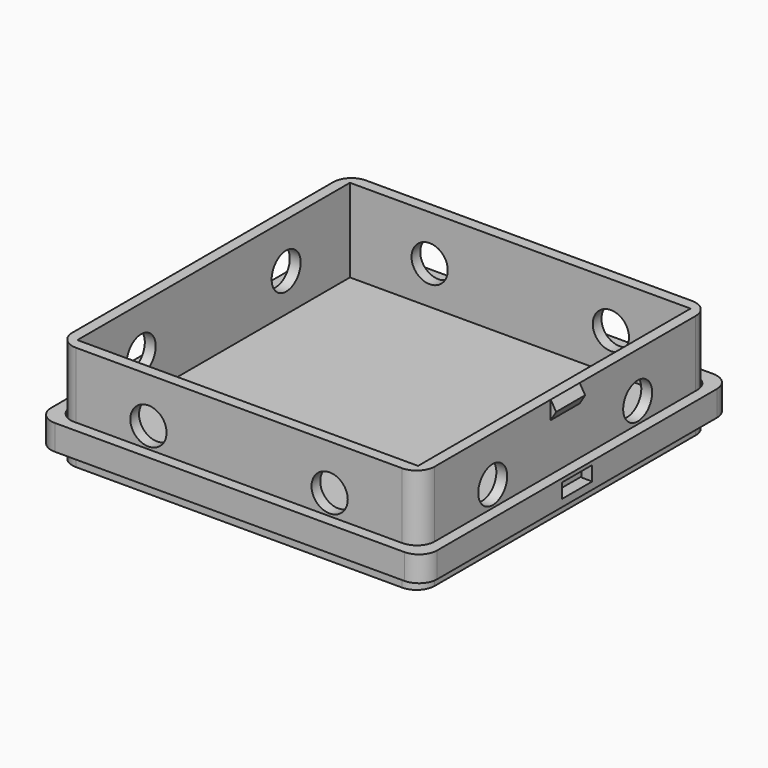
from build123d import *

# Parameters (mm, degrees)
SKETCH_W              = 100
SKETCH_H              = 100
SKETCH_W_2            = 94
SKETCH_H_2            = 94
PAD_DEPTH             = 25
SKETCH001_W           = 100
SKETCH001_H           = 100
PAD001_DEPTH          = 4
SKETCH002_R           = 5
POCKET_DEPTH          = 3
POLARPATTERN_COUNT    = 4
FILLET_R              = 5
SKETCH003_R           = 6.25
POCKET001_DEPTH       = 2.5
POLARPATTERN001_COUNT = 4
SKETCH004_R           = 1
POCKET002_DEPTH       = 290.229246
POLARPATTERN002_COUNT = 4
PAD002_DEPTH          = 5
SKETCH006_W           = 106.5
SKETCH006_H           = 106.5
PAD003_DEPTH          = 2
SKETCH007_W           = 106.5
SKETCH007_H           = 106.5
SKETCH007_W_2         = 100.5
SKETCH007_H_2         = 100.5
PAD004_DEPTH          = 5
SKETCH008_W           = 10.5
SKETCH008_H           = 4
POCKET003_DEPTH       = 106.501
FILLET001_R           = 5
FILLET002_R           = 5


with BuildPart() as body:
    # Sketch → Pad (new body)
    with BuildSketch(Plane.XY):
        Rectangle(SKETCH_W, SKETCH_H)
        Rectangle(SKETCH_W_2, SKETCH_H_2, mode=Mode.SUBTRACT)
    extrude(amount=PAD_DEPTH)

    # Sketch001 (on Face9 of Pad) → Pad001 (join)
    with BuildSketch(Plane(origin=(0, 0, 0), x_dir=(1, 0, 0), z_dir=(0, 0, -1))):
        Rectangle(SKETCH001_W, SKETCH001_H)
    extrude(amount=PAD001_DEPTH)

    # Sketch002 (on Face6 of Pad001) → Pocket (cut)
    with BuildSketch(Plane.XZ.offset(50)):
        with Locations((-25, 12.5)):
            Circle(SKETCH002_R)
        with Locations((25, 12.5)):
            Circle(SKETCH002_R)
    pocket = extrude(amount=-POCKET_DEPTH, mode=Mode.SUBTRACT)

    # PolarPattern: Pocket ×4 about axis
    polarpattern_axis = Axis((0, 0, 0), (0, 0, 1))
    for i in range(1, POLARPATTERN_COUNT):
        add(pocket.rotate(polarpattern_axis, i * 360 / POLARPATTERN_COUNT), mode=Mode.SUBTRACT)

    # Fillet
    fillet_edges = [body.edges().sort_by_distance(p)[0] for p in [
        (-50, -50, 12.5),
        (-50, -50, -2),
        (50, -50, 12.5),
        (50, -50, -2),
        (50, 50, 12.5),
        (50, 50, -2),
        (-50, 50, 12.5),
        (-50, 50, -2),
    ]]
    fillet(fillet_edges, radius=FILLET_R)

    # Sketch003 (on Face31 of Fillet) → Pocket001 (cut)
    with BuildSketch(Plane.XY):
        with Locations((0, 25)):
            Circle(SKETCH003_R)
    pocket001 = extrude(amount=-POCKET001_DEPTH, mode=Mode.SUBTRACT)

    # PolarPattern001: Pocket001 ×4 about axis
    polarpattern001_axis = Axis((0, 0, 0), (0, 0, 1))
    for i in range(1, POLARPATTERN001_COUNT):
        add(pocket001.rotate(polarpattern001_axis, i * 360 / POLARPATTERN001_COUNT), mode=Mode.SUBTRACT)

    # Sketch004 (on Face39 of PolarPattern001) → Pocket002 (cut, through all)
    with BuildSketch(Plane.XY.offset(-2.5)):
        with Locations((0, 25)):
            Circle(SKETCH004_R)
    pocket002 = extrude(amount=-POCKET002_DEPTH, mode=Mode.SUBTRACT)

    # PolarPattern002: Pocket002 ×4 about axis
    polarpattern002_axis = Axis((0, 0, -2.5), (0, 0, 1))
    for i in range(1, POLARPATTERN002_COUNT):
        add(pocket002.rotate(polarpattern002_axis, i * 360 / POLARPATTERN002_COUNT), mode=Mode.SUBTRACT)

    # Sketch005 → Pad002 (join, symmetric)
    with BuildSketch(Plane.XZ):
        Polygon((-50, 25), (-51.5, 22.5), (-50, 20), align=None)
    pad002 = extrude(amount=PAD002_DEPTH, both=True)

    # Mirrored: Pad002 across Sketch005 V_Axis
    add(pad002.mirror(Plane(origin=(0, 0, 0), x_dir=(0, -1, 0), z_dir=(1, 0, 0))))


with BuildPart() as lid:
    # Sketch006 → Pad003 (new body)
    with BuildSketch(Plane.XY):
        Rectangle(SKETCH006_W, SKETCH006_H)
    extrude(amount=PAD003_DEPTH)

    # Sketch007 (on Face6 of Pad003) → Pad004 (join)
    with BuildSketch(Plane.XY.offset(2)):
        Rectangle(SKETCH007_W, SKETCH007_H)
        Rectangle(SKETCH007_W_2, SKETCH007_H_2, mode=Mode.SUBTRACT)
    extrude(amount=PAD004_DEPTH)

    # Sketch008 (on Face8 of Pad004) → Pocket003 (cut, through all)
    with BuildSketch(Plane(origin=(-53.25, 0, 0), x_dir=(0, -1, 0), z_dir=(-1, 0, 0))):
        with Locations((0, 4)):
            Rectangle(SKETCH008_W, SKETCH008_H)
    extrude(amount=-POCKET003_DEPTH, mode=Mode.SUBTRACT)

    # Fillet001
    fillet001_edges = [lid.edges().sort_by_distance(p)[0] for p in [
        (-50.25, -50.25, 4.5),
        (50.25, -50.25, 4.5),
        (50.25, 50.25, 4.5),
        (-50.25, 50.25, 4.5),
    ]]
    fillet(fillet001_edges, radius=FILLET001_R)

    # Fillet002
    fillet002_edges = [lid.edges().sort_by_distance(p)[0] for p in [
        (-53.25, 53.25, 1),
        (53.25, -53.25, 4.5),
        (-53.25, -53.25, 1),
        (53.25, 53.25, 4.5),
        (-53.25, 53.25, 4.5),
        (-53.25, -53.25, 4.5),
        (53.25, -53.25, 1),
        (53.25, 53.25, 1),
    ]]
    fillet(fillet002_edges, radius=FILLET002_R)


solid = Compound([body.part, lid.part])
